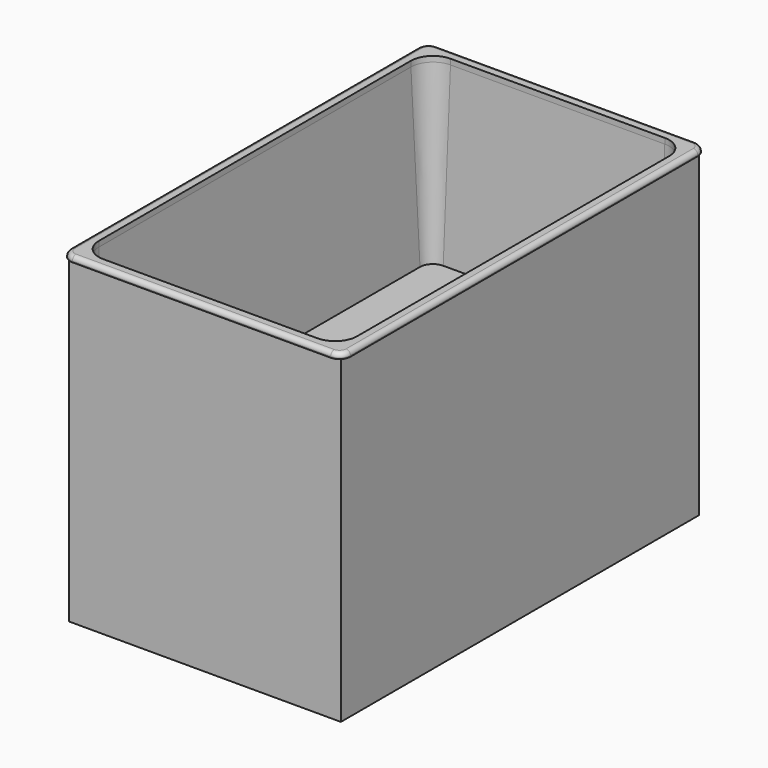
from build123d import *

# Parameters (mm, degrees)
F0_W      = 314.325
F0_H      = 517.525
F1_DEPTH  = 369.8875
F3_DEPTH  = 200.025
F3_TAPER  = 3
F4_R      = 9.525
F5_DEPTH  = 9.525
F7_DEPTH  = 6.35
F8_R      = 5.08
F9_W      = 241.3
F9_H      = 88.9
F10_DEPTH = 1.27
F11_W     = 25.4
F11_H     = 25.4
F11_W_2   = 12.7
F12_DEPTH = 0.762


with BuildPart() as f1:
    # F0 (on Top) → F1 (new body)
    with BuildSketch(Plane.XY):
        Rectangle(F0_W, F0_H)
    extrude(amount=-F1_DEPTH)

    # F2 (on face) → F3 (cut)
    with BuildSketch(Plane.XY):
        with BuildLine():
            Line((123.825, 250.825), (-123.825, 250.825))
            ThreePointArc((-123.825, 250.825), (-141.7855122421, 243.3855122421), (-149.225, 225.425))
            Line((-149.225, 225.425), (-149.225, -225.425))
            ThreePointArc((-149.225, -225.425), (-141.7855122421, -243.3855122421), (-123.825, -250.825))
            Line((-123.825, -250.825), (123.825, -250.825))
            ThreePointArc((123.825, -250.825), (141.7855122421, -243.3855122421), (149.225, -225.425))
            Line((149.225, -225.425), (149.225, 225.425))
            ThreePointArc((149.225, 225.425), (141.7855122421, 243.3855122421), (123.825, 250.825))
        make_face()
    extrude(amount=-F3_DEPTH, taper=F3_TAPER, mode=Mode.SUBTRACT)

    # F4 (on face) → F5 (join)
    with BuildSketch(Plane(origin=(0, 0, -369.8875), x_dir=(1, 0, 0), z_dir=(0, 0, -1))):
        with Locations((-124.1987000862, 204.4887688288)):
            Circle(F4_R)
        with Locations((124.1987000862, 204.4887688288)):
            Circle(F4_R)
        with Locations((124.1987000862, -204.4887688288)):
            Circle(F4_R)
        with Locations((-124.1987000862, -204.4887688288)):
            Circle(F4_R)
    extrude(amount=F5_DEPTH)

    # F6 (on face) → F7 (join)
    with BuildSketch(Plane.XY):
        with BuildLine():
            Line((149.225, 263.525), (-149.225, 263.525))
            ThreePointArc((-149.225, 263.525), (-158.2052561211, 259.8052561211), (-161.925, 250.825))
            Line((-161.925, 250.825), (-161.925, -250.825))
            ThreePointArc((-161.925, -250.825), (-158.2052561211, -259.8052561211), (-149.225, -263.525))
            Line((-149.225, -263.525), (149.225, -263.525))
            ThreePointArc((149.225, -263.525), (158.2052561211, -259.8052561211), (161.925, -250.825))
            Line((161.925, -250.825), (161.925, 250.825))
            ThreePointArc((161.925, 250.825), (158.2052561211, 259.8052561211), (149.225, 263.525))
        make_face()
        with BuildLine():
            ThreePointArc((-149.225, 225.425), (-141.7855122421, 243.3855122421), (-123.825, 250.825))
            Line((-123.825, 250.825), (123.825, 250.825))
            ThreePointArc((123.825, 250.825), (141.7855122421, 243.3855122421), (149.225, 225.425))
            Line((149.225, 225.425), (149.225, -225.425))
            ThreePointArc((149.225, -225.425), (141.7855122421, -243.3855122421), (123.825, -250.825))
            Line((123.825, -250.825), (-123.825, -250.825))
            ThreePointArc((-123.825, -250.825), (-141.7855122421, -243.3855122421), (-149.225, -225.425))
            Line((-149.225, -225.425), (-149.225, 225.425))
        make_face(mode=Mode.SUBTRACT)
    extrude(amount=F7_DEPTH)

    # F8
    f8_edges = [f1.edges().sort_by_distance(p)[0] for p in [
        (161.925, 0, 6.35),
    ]]
    fillet(f8_edges, radius=F8_R)

    # F9 (on face) → F10 (join)
    with BuildSketch(Plane(origin=(-157.1625, 0, 0), x_dir=(0, -1, 0), z_dir=(-1, 0, 0))):
        with Locations((109.5375, -284.1625)):
            Rectangle(F9_W, F9_H)
    extrude(amount=F10_DEPTH)

    # F11 (on face) → F12 (join)
    with BuildSketch(Plane(origin=(-158.4325, 0, 0), x_dir=(0, -1, 0), z_dir=(-1, 0, 0))):
        with Locations((141.2875, -296.8625)):
            Rectangle(F11_W, F11_H)
        with Locations((160.3375, -296.8625)):
            Rectangle(F11_W_2, F11_H)
        with Locations((173.0375, -296.8625)):
            Rectangle(F11_W_2, F11_H)
        with Locations((192.0875, -296.8625)):
            Rectangle(F11_W, F11_H)
    extrude(amount=F12_DEPTH)


solid = f1.part
